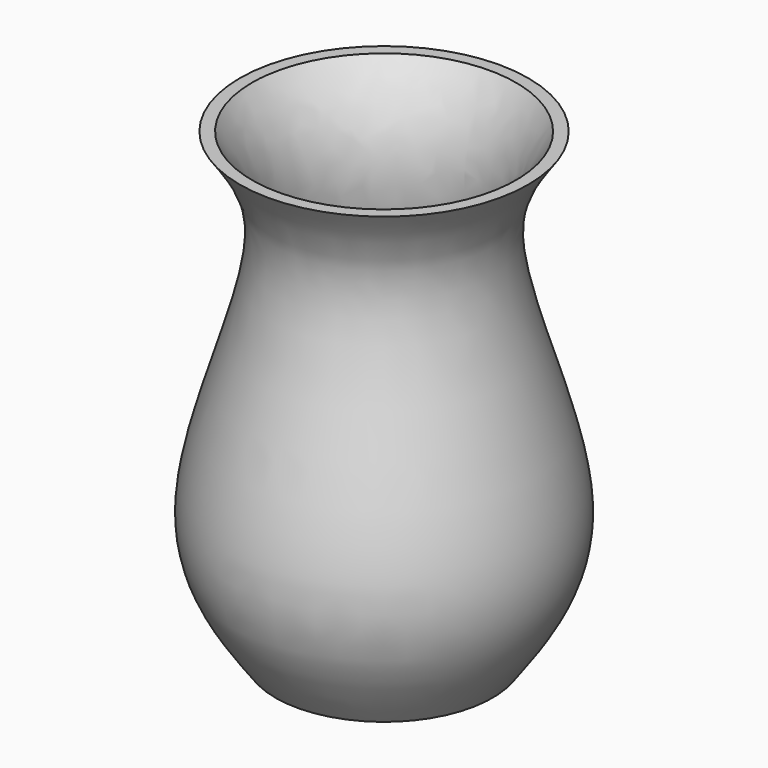
from build123d import *

# Parameters (mm, degrees)
F2_T = -2.5


with BuildPart() as f1:
    # F0 (on Front) → F1 (revolve)
    with BuildSketch(Plane.XZ):
        with BuildLine():
            Line((-27.2095296532, 0), (0, 0))
            Line((0, 0), (0, 116.1274686456))
            Line((0, 116.1274686456), (-36.1451879144, 116.1274686456))
            add(Edge.make_bspline(
                [(-27.2095296532, 0), (-34.1879031262, 9.5356813411), (-50.3267118721, 31.5887482945), (-19.5836264555, 92.8531972301), (-31.5007919178, 109.6006122708), (-36.1451879144, 116.1274686456)],
                knots=[0, 0, 0, 0, 0.3173622425, 0.7339602208, 1, 1, 1, 1], degree=3))
        make_face()
    revolve(axis=Axis((0, 0, 58.0637343228), (0, 0, -1)))

    # F2
    f2_openings = [f1.faces().sort_by_distance(p)[0] for p in [
        (0, 0, 116.127469),
    ]]
    offset(amount=F2_T, openings=f2_openings)


solid = f1.part
